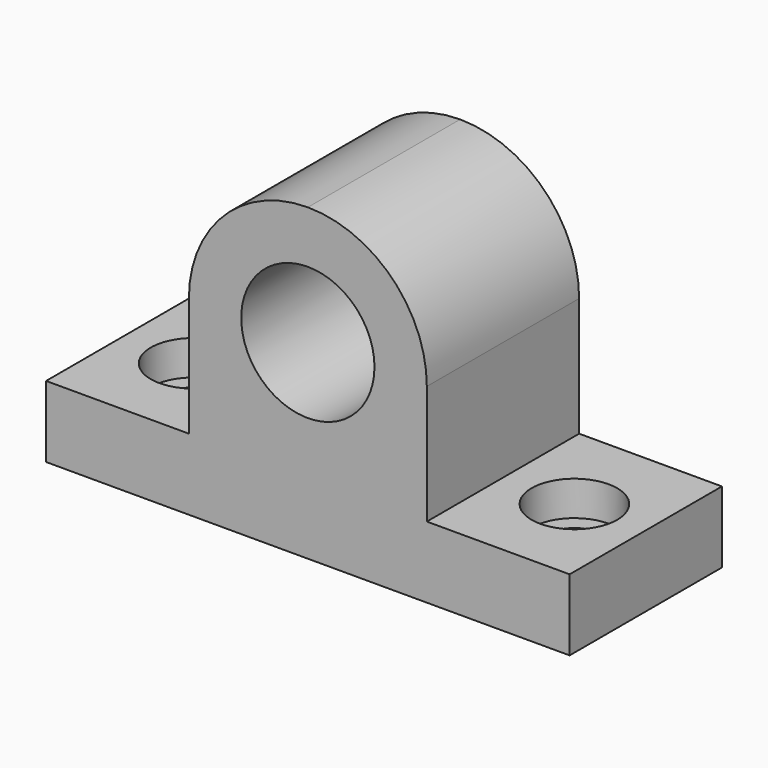
from build123d import *

# Parameters (mm, degrees)
F0_R      = 14
F0_W      = 11
F0_H      = 7.7
F1_DEPTH  = 20
F2_R      = 9
F2_R_2    = 5.5
F3_DEPTH  = 7.3
F3_FACE_R = 5.5
F4_DEPTH  = 15


with BuildPart() as f1:
    # F0 (on Front) → F1 (new body, symmetric)
    with BuildSketch(Plane.XZ):
        Polygon((-49, 15), (-55, 15), (-55, 0), (-45.5, 0), (-45.5, 7.7), (-49, 7.7), align=None)
        Polygon((-31, 15), (-49, 15), (-49, 7.7), (-45.5, 7.7), (-34.5, 7.7), (-31, 7.7), align=None)
        with BuildLine():
            Line((-25, 15), (-31, 15))
            Line((-31, 15), (-31, 7.7))
            Line((-31, 7.7), (-34.5, 7.7))
            Line((-34.5, 7.7), (-34.5, 0))
            Line((-34.5, 0), (34.5, 0))
            Line((34.5, 0), (34.5, 7.7))
            Line((34.5, 7.7), (31, 7.7))
            Line((31, 7.7), (31, 15))
            Line((31, 15), (25, 15))
            Line((25, 15), (25, 40))
            ThreePointArc((25, 40), (17.67767, 57.67767), (0, 65))
            ThreePointArc((0, 65), (-17.67767, 57.67767), (-25, 40))
            Line((-25, 40), (-25, 15))
        make_face()
        with Locations((0, 40)):
            Circle(F0_R, mode=Mode.SUBTRACT)
        with Locations((-40, 3.85)):
            Rectangle(F0_W, F0_H)
        with Locations((40, 3.85)):
            Rectangle(F0_W, F0_H)
        Polygon((45.5, 7.7), (45.5, 0), (55, 0), (55, 15), (49, 15), (49, 7.7), align=None)
        Polygon((31, 7.7), (34.5, 7.7), (45.5, 7.7), (49, 7.7), (49, 15), (31, 15), align=None)
    extrude(amount=F1_DEPTH, both=True)

    # F2 (on face) → F3 (cut)
    with BuildSketch(Plane.XY.offset(15)):
        with Locations((-40, 0)):
            Circle(F2_R)
        with Locations((-40, 0)):
            Circle(F2_R_2, mode=Mode.SUBTRACT)
        with Locations((40, 0)):
            Circle(F2_R)
        with Locations((40, 0)):
            Circle(F2_R_2, mode=Mode.SUBTRACT)
    extrude(amount=-F3_DEPTH, mode=Mode.SUBTRACT)

    # F3_face (on face) → F4 (cut)
    with BuildSketch(Plane(origin=(-40, 0, 15), x_dir=(1, 0, 0), z_dir=(0, 0, 1))):
        Circle(F3_FACE_R)
        with Locations((80, 0)):
            Circle(F3_FACE_R)
    extrude(amount=-F4_DEPTH, mode=Mode.SUBTRACT)


solid = f1.part
